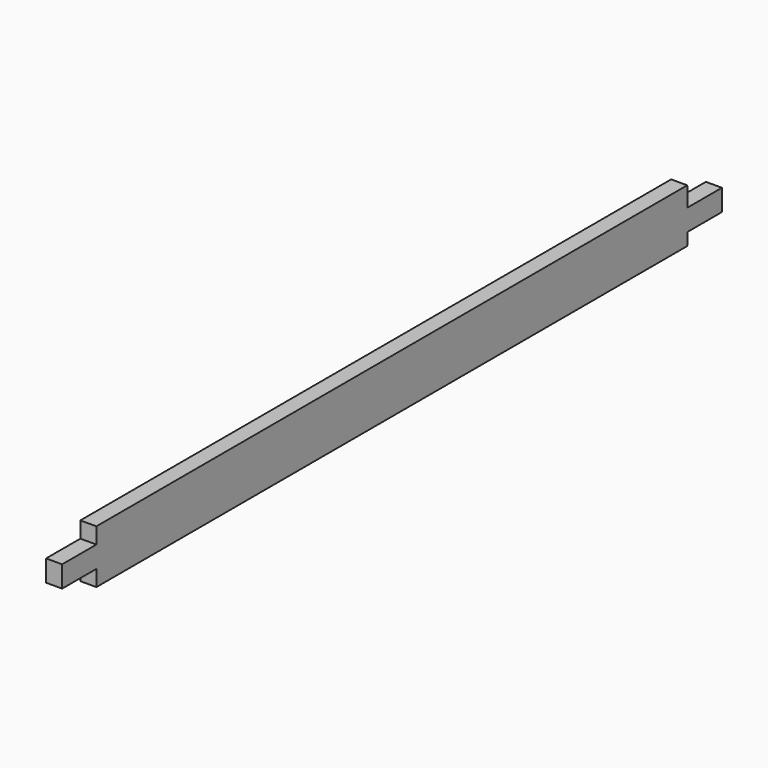
from build123d import *

# Parameters (mm, degrees)
F1_DEPTH = 19.05
F0_W     = 101.6
F0_H     = 50.8
F2_DEPTH = 19.05


with BuildPart() as f1:
    # F0 (on Right) → F1 (new body, symmetric)
    with BuildSketch(Plane.YZ):
        Polygon((-1714.672583, 105.171546), (-1714.672583, 67.071546), (-1714.672583, 16.271546), (-1714.672583, -21.828454), (37.927417, -21.828454), (39.198343, 7.38804), (39.198343, 58.18804), (37.927417, 105.171546), align=None)
    extrude(amount=F1_DEPTH, both=True)

    # F0 (on Right) → F2 (join, symmetric)
    with BuildSketch(Plane.YZ):
        with Locations((89.998343, 32.78804)):
            Rectangle(F0_W, F0_H)
        with Locations((-1765.472583, 41.671546)):
            Rectangle(F0_W, F0_H)
    extrude(amount=F2_DEPTH, both=True)


solid = f1.part
